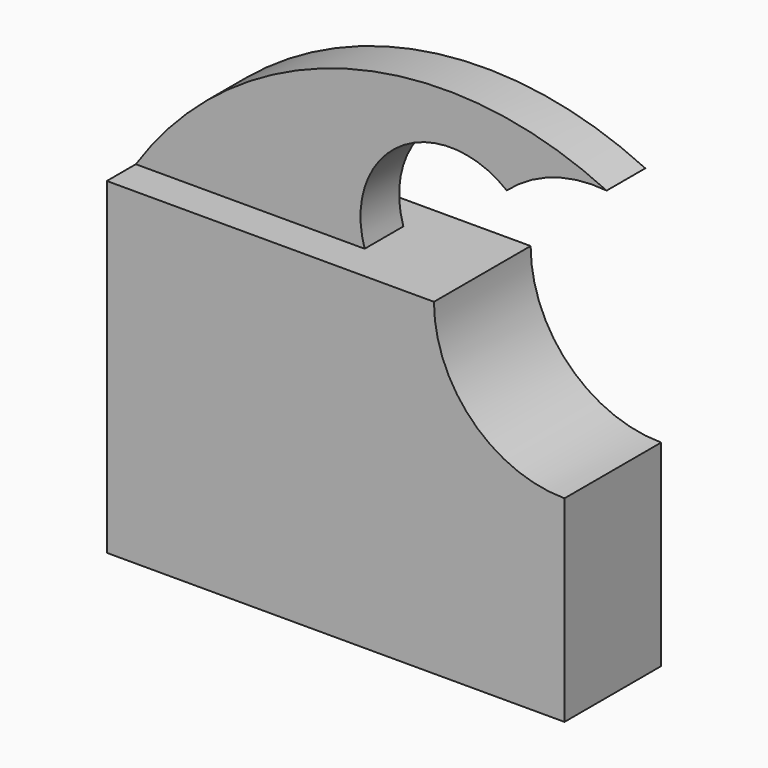
from build123d import *

# Parameters (mm, degrees)
F1_DEPTH = 12.5
F2_DEPTH = 5


with BuildPart() as f1:
    # F0 (on Front) → F1 (new body, symmetric)
    with BuildSketch(Plane.XZ):
        with BuildLine():
            Line((-47.340788, -33.865508), (47.340788, -33.865508))
            Line((47.340788, -33.865508), (47.340788, 6.859001))
            ThreePointArc((47.340788, 6.859001), (28.244304, 14.769024), (20.334281, 33.865508))
            Line((20.334281, 33.865508), (0, 33.865508))
            Line((0, 33.865508), (-47.340788, 33.865508))
            Line((-47.340788, 33.865508), (-47.340788, -33.865508))
        make_face()
    extrude(amount=F1_DEPTH, both=True)

    # F0 (on Front) → F2 (join, symmetric)
    with BuildSketch(Plane.XZ):
        with BuildLine():
            ThreePointArc((50.061827, 60.734585), (-3.651514, 65.469078), (-47.340788, 33.865508))
            Line((-47.340788, 33.865508), (0, 33.865508))
            ThreePointArc((0, 33.865508), (7.223757, 54.839315), (29.392478, 54.044942))
            ThreePointArc((29.392478, 54.044942), (39.024823, 59.55979), (50.061827, 60.734585))
        make_face()
    extrude(amount=F2_DEPTH, both=True)


solid = f1.part
